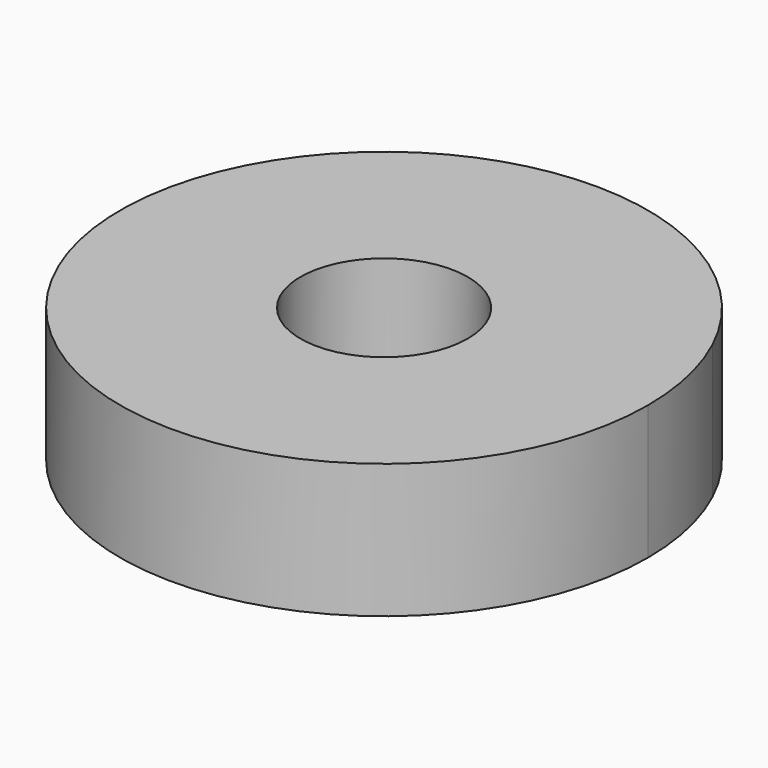
from build123d import *

# Parameters (mm, degrees)
F0_R     = 2.3749
F1_DEPTH = 1.905


with BuildPart() as f1:
    # F0 (on Top) → F1 (new body, symmetric)
    with BuildSketch(Plane.XY):
        with BuildLine():
            ThreePointArc((7.493, 0), (7.31599, 1.619054), (6.793324, 3.161612))
            ThreePointArc((6.793324, 3.161612), (4.813653, 5.742281), (1.926984, 7.240979))
            ThreePointArc((1.926984, 7.240979), (-0.836016, 7.446216), (-3.484713, 6.633387))
            ThreePointArc((-3.484713, 6.633387), (-5.967172, 4.531876), (-7.325286, 1.576461))
            ThreePointArc((-7.325286, 1.576461), (-0.792679, -7.450954), (7.493, 0))
        make_face()
        Circle(F0_R, mode=Mode.SUBTRACT)
    extrude(amount=F1_DEPTH, both=True)


solid = f1.part
